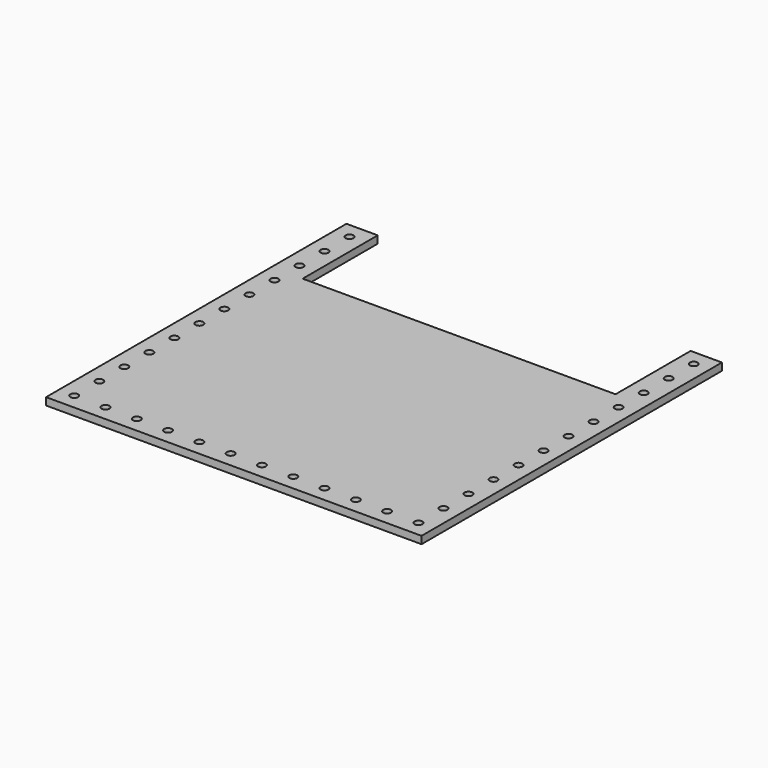
from build123d import *

# Parameters (mm, degrees)
F1_DEPTH = 6
F3_D     = 6.35


with BuildPart() as f1:
    # F0 (on Top) → F1 (new body)
    with BuildSketch(Plane.XY):
        Polygon((-127, 152.4), (-152.4, 152.4), (-152.4, -152.4), (152.4, -152.4), (152.4, 152.4), (127, 152.4), (127, 76.2), (-127, 76.2), align=None)
    extrude(amount=F1_DEPTH)

    # F3 (through all)
    with Locations(Plane.XY.offset(6)):
        with Locations((-139.7, 114.300002), (63.5, -139.699976), (-139.7, 12.700011), (139.7, -12.699987), (139.7, 114.300002), (-139.7, -63.499983), (38.1, -139.699976), (139.7, 88.900004), (-38.1, -139.699976), (-139.7, -38.099985), (-88.9, -139.699976), (-114.3, -139.699976), (12.7, -139.699976), (-139.7, 139.7), (-139.7, -114.299978), (139.7, 12.700011), (139.7, 38.100009), (139.7, -38.099985), (139.7, 139.7), (88.9, -139.699976), (-139.7, -139.699976), (-63.5, -139.699976), (-12.7, -139.699976), (139.7, -139.699976), (139.7, -114.299978), (-139.7, 38.100009), (139.7, -88.89998), (139.7, -63.499983), (-139.7, -12.699987), (-139.7, 63.500007), (139.7, 63.500007), (-139.7, -88.89998), (-139.7, 88.900004), (114.3, -139.699976)):
            Hole(F3_D / 2)


solid = f1.part
